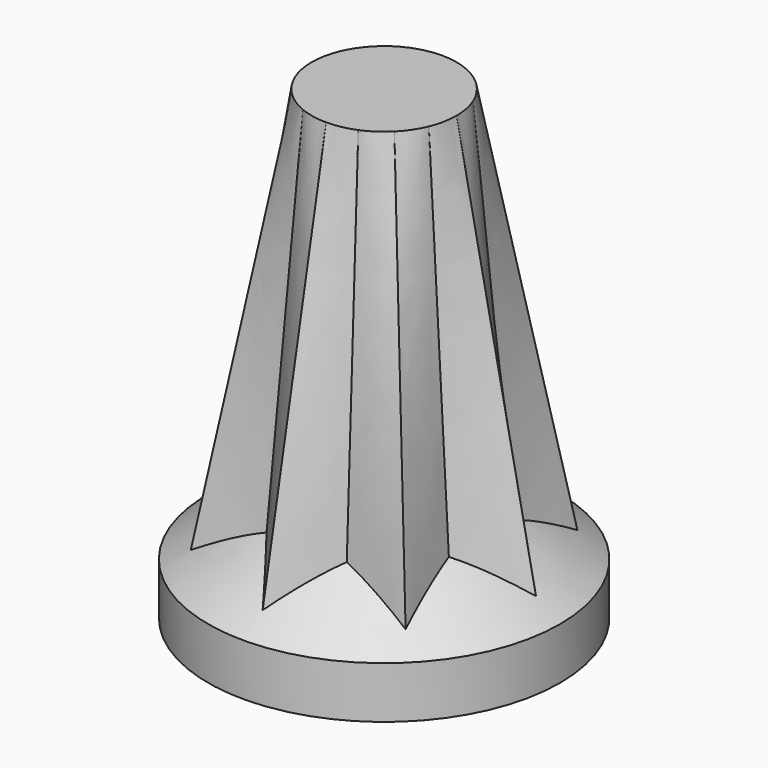
from build123d import *

# Parameters (mm, degrees)
SKETCH_R        = 8.5
PAD001_DEPTH    = 6
CHAMFER_ANGLE   = 55
CHAMFER_SIZE    = 3.5
SKETCH007_R     = 3.5
POCKET_DEPTH    = 20.5
SKETCH5_R       = 6.35
POCKET001_DEPTH = 3
SKETCH6_R       = 3.1
POCKET002_DEPTH = 6.1


with BuildPart() as part:
    # Sketch → Pad001 (new body)
    with BuildSketch(Plane.XY):
        Circle(SKETCH_R)
    extrude(amount=PAD001_DEPTH)

    # Chamfer
    chamfer_edges = [part.edges().sort_by_distance(p)[0] for p in [
        (-8.5, 0, 6),
    ]]
    chamfer_side = part.faces().sort_by_distance((-8.5, 0, 3))[0]
    chamfer(chamfer_edges, length=CHAMFER_SIZE, angle=CHAMFER_ANGLE, reference=chamfer_side)

    # Sketch1 → AdditiveLoft section 0
    with BuildSketch(Plane.XY):
        Polygon((-2.104759, 5.081337), (0, 8), (2.104759, 5.081337), (5.656854, 5.656854), (5.081337, 2.104759), (8, 0), (5.081337, -2.104759), (5.656854, -5.656854), (2.104759, -5.081337), (0, -8), (-2.104759, -5.081337), (-5.656854, -5.656854), (-5.081337, -2.104759), (-8, 0), (-5.081337, 2.104759), (-5.656854, 5.656854), align=None)
    # Sketch007 → AdditiveLoft section 1
    with BuildSketch(Plane.XY.offset(22.5)):
        Circle(SKETCH007_R)
    loft()

    # Sketch3 → Pocket (cut)
    with BuildSketch(Plane(origin=(0, 0, 0), x_dir=(-1, 0, 0), z_dir=(0, 0, -1))):
        with BuildLine():
            ThreePointArc((2.592296, -1.7), (0, 3.1), (-2.592296, -1.7))
            Line((2.592296, -1.7), (-2.592296, -1.7))
        make_face()
    extrude(amount=-POCKET_DEPTH, mode=Mode.SUBTRACT)

    # Sketch5 → Pocket001 (cut)
    with BuildSketch(Plane(origin=(0, 0, 0), x_dir=(-1, 0, 0), z_dir=(0, 0, -1))):
        Circle(SKETCH5_R)
    extrude(amount=-POCKET001_DEPTH, mode=Mode.SUBTRACT)

    # Sketch6 → Pocket002 (cut)
    with BuildSketch(Plane(origin=(0, 0, 3), x_dir=(-1, 0, 0), z_dir=(0, 0, -1))):
        Circle(SKETCH6_R)
    extrude(amount=-POCKET002_DEPTH, mode=Mode.SUBTRACT)


solid = part.part
